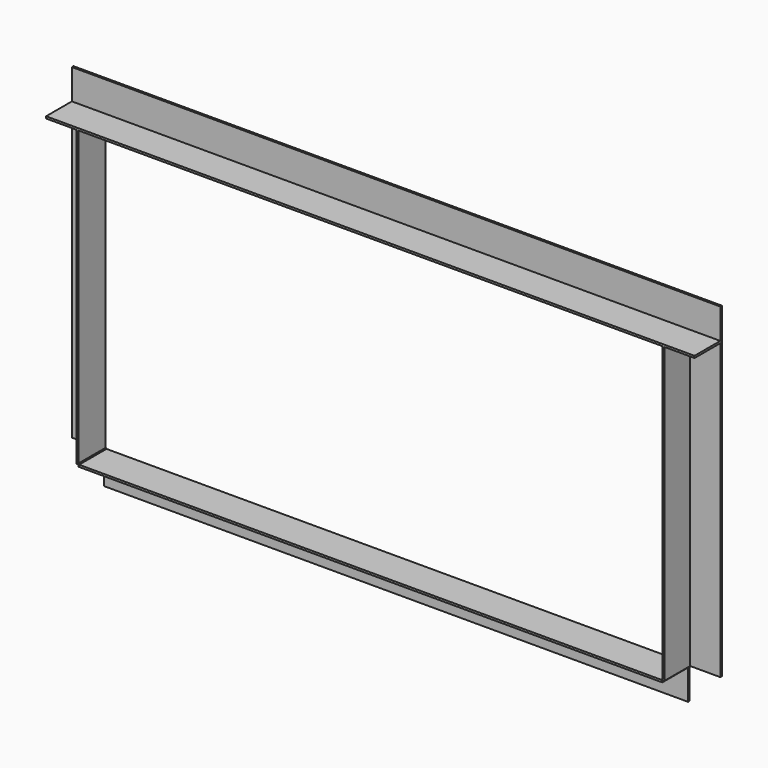
from build123d import *

# Parameters (mm, degrees)
F0_W     = 2.54
F0_H     = 2.54
F1_DEPTH = 6.35
F2_W     = 2.54
F2_H     = 2.54
F3_DEPTH = 101.6


with BuildPart() as f1:
    # F0 (on Front) → F1 (new body)
    with BuildSketch(Plane.XZ):
        with Locations((1884.450598, -15.613977)):
            Rectangle(F0_W, F0_H)
        Polygon((1987.320598, 910.216023), (1885.720598, 910.216023), (1885.720598, 0), (1885.720598, -2.54), (1885.720598, -14.343977), (1885.720598, -16.883977), (1987.320598, -16.883977), align=None)
        Polygon((46.760598, -16.883977), (44.220598, -16.883977), (44.220598, -118.483977), (1885.720598, -118.483977), (1885.720598, -16.883977), (1883.180598, -16.883977), align=None)
        Polygon((44.220598, 910.216023), (1885.720598, 910.216023), (1987.320598, 910.216023), (1987.320598, 1011.816023), (-57.379402, 1011.816023), (-57.379402, 910.216023), align=None)
        Polygon((44.220598, -14.343977), (44.220598, 910.216023), (-57.379402, 910.216023), (-57.379402, -16.883977), (44.220598, -16.883977), align=None)
        with Locations((45.490598, -15.613977)):
            Rectangle(F0_W, F0_H)
    extrude(amount=F1_DEPTH)

    # F2 (on face) → F3 (join)
    with BuildSketch(Plane.XZ.offset(6.35)):
        Polygon((37.870598, 910.216023), (44.220598, 910.216023), (1885.720598, 910.216023), (1892.070598, 910.216023), (1987.320598, 910.216023), (1987.320598, 916.566023), (-57.379402, 916.566023), (-57.379402, 910.216023), align=None)
        Polygon((1892.070598, 910.216023), (1885.720598, 910.216023), (1885.720598, -14.343977), (1885.720598, -16.883977), (1892.070598, -16.883977), align=None)
        Polygon((44.220598, -14.343977), (44.220598, 910.216023), (37.870598, 910.216023), (37.870598, -16.883977), (44.220598, -16.883977), align=None)
        Polygon((46.760598, -16.883977), (44.220598, -16.883977), (44.220598, -23.233977), (1885.720598, -23.233977), (1885.720598, -16.883977), (1883.180598, -16.883977), align=None)
        with Locations((45.490598, -15.613977)):
            Rectangle(F2_W, F2_H)
        with Locations((1884.450598, -15.613977)):
            Rectangle(F2_W, F2_H)
    extrude(amount=F3_DEPTH)


solid = f1.part
